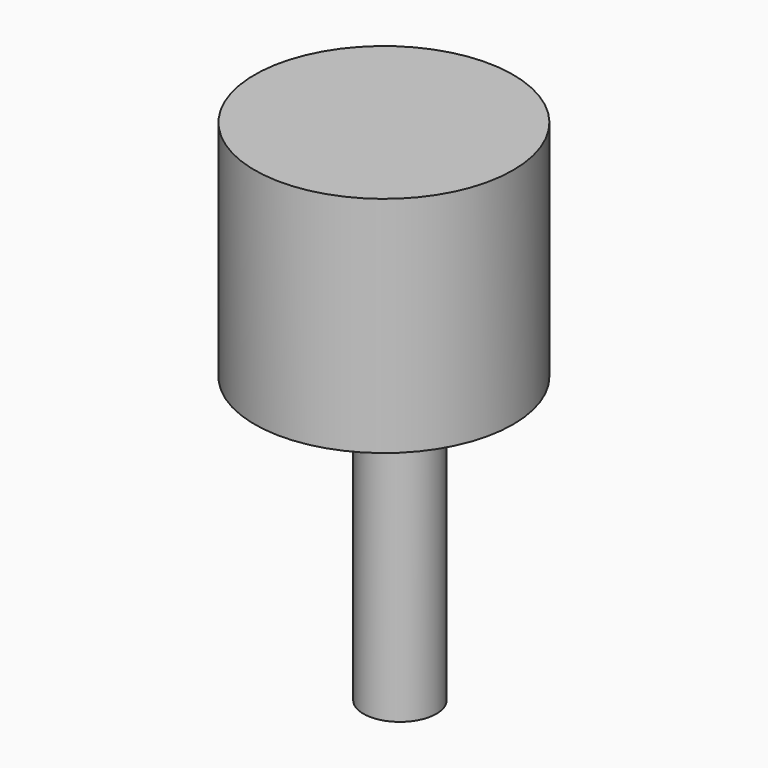
from build123d import *

# Parameters (mm, degrees)
F0_R     = 21.124609
F1_DEPTH = 36.576
F2_R     = 5.967028
F3_DEPTH = 82.296


with BuildPart() as f1:
    # F0 (on Top) → F1 (new body)
    with BuildSketch(Plane.XY):
        with Locations((7.382265, 0)):
            Circle(F0_R)
    extrude(amount=F1_DEPTH)

    # F2 (on face) → F3 (join)
    with BuildSketch(Plane.XY.offset(36.576)):
        with Locations((9.999584, 0)):
            Circle(F2_R)
    extrude(amount=-F3_DEPTH)


solid = f1.part
